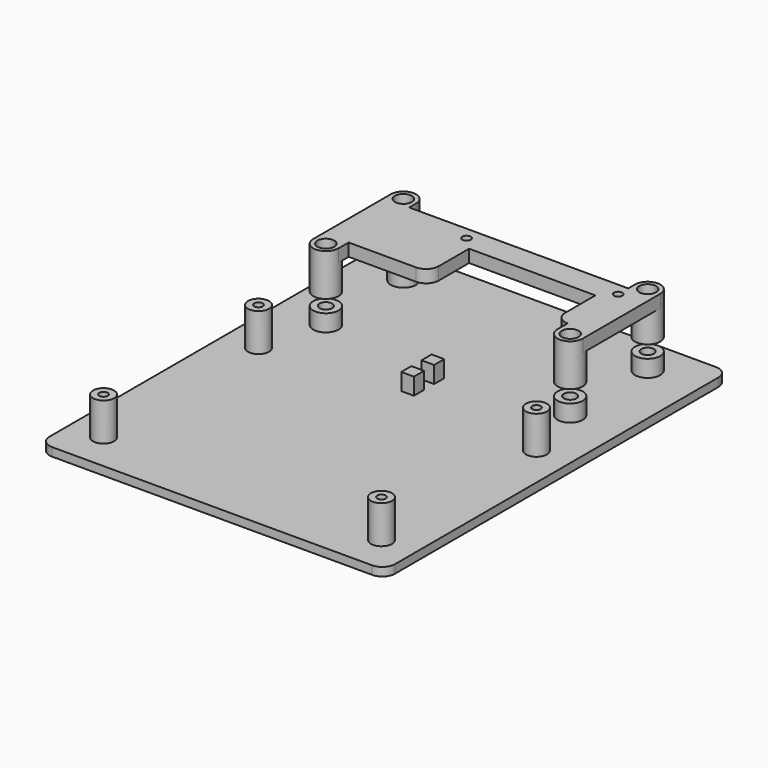
from build123d import *

# Parameters (mm, degrees)
PAD002_DEPTH  = 2
SKETCH003_R   = 3
SKETCH003_R_2 = 1.5
PAD003_DEPTH  = 4
SKETCH017_R   = 2.5
SKETCH017_R_2 = 1
PAD014_DEPTH  = 9
SKETCH018_W   = 3
SKETCH018_H   = 3
PAD015_DEPTH  = 4
SKETCH_R      = 2
SKETCH_R_2    = 1
PAD_DEPTH     = 3
SKETCH020_R   = 3
SKETCH020_R_2 = 2
PAD017_DEPTH  = 7


with BuildPart() as base:
    # Sketch002 → Pad002 (new body)
    with BuildSketch(Plane.XY):
        with BuildLine():
            Line((0, 99), (0, 3))
            ThreePointArc((0, 3), (0.87868, 0.87868), (3, 0))
            Line((3, 0), (79, 0))
            ThreePointArc((79, 0), (81.12132, 0.87868), (82, 3))
            Line((82, 3), (82, 99))
            ThreePointArc((82, 99), (81.12132, 101.12132), (79, 102))
            Line((79, 102), (3, 102))
            ThreePointArc((3, 102), (0.87868, 101.12132), (0, 99))
        make_face()
    extrude(amount=-PAD002_DEPTH)

    # Sketch003 → Pad003 (join)
    with BuildSketch(Plane.XY):
        with Locations((12, 93)):
            Circle(SKETCH003_R)
        with Locations((12, 93)):
            Circle(SKETCH003_R_2, mode=Mode.SUBTRACT)
        with Locations((70, 93)):
            Circle(SKETCH003_R)
        with Locations((70, 93)):
            Circle(SKETCH003_R_2, mode=Mode.SUBTRACT)
        with Locations((70, 70)):
            Circle(SKETCH003_R)
        with Locations((70, 70)):
            Circle(SKETCH003_R_2, mode=Mode.SUBTRACT)
        with Locations((12, 70)):
            Circle(SKETCH003_R)
        with Locations((12, 70)):
            Circle(SKETCH003_R_2, mode=Mode.SUBTRACT)
    extrude(amount=PAD003_DEPTH)

    # Sketch017 → Pad014 (join)
    with BuildSketch(Plane.XY):
        with Locations((8, 9)):
            Circle(SKETCH017_R)
        with Locations((8, 9)):
            Circle(SKETCH017_R_2, mode=Mode.SUBTRACT)
        with Locations((74, 9)):
            Circle(SKETCH017_R)
        with Locations((74, 9)):
            Circle(SKETCH017_R_2, mode=Mode.SUBTRACT)
        with Locations((74, 55)):
            Circle(SKETCH017_R)
        with Locations((74, 55)):
            Circle(SKETCH017_R_2, mode=Mode.SUBTRACT)
        with Locations((8, 55)):
            Circle(SKETCH017_R)
        with Locations((8, 55)):
            Circle(SKETCH017_R_2, mode=Mode.SUBTRACT)
    extrude(amount=PAD014_DEPTH)

    # Sketch018 → Pad015 (join)
    with BuildSketch(Plane.XY):
        with Locations((41, 65.5)):
            Rectangle(SKETCH018_W, SKETCH018_H)
        with Locations((41, 59.5)):
            Rectangle(SKETCH018_W, SKETCH018_H)
    extrude(amount=PAD015_DEPTH)


with BuildPart() as base_1:
    # Body002 placement: moved
    add(base.part.moved(Location((0, 0, -4))))


with BuildPart() as fan:
    # Sketch → Pad (new body)
    with BuildSketch(Plane.XY):
        with BuildLine():
            Line((0, 26), (0, 3))
            ThreePointArc((0, 3), (3, 0), (6, 3))
            Line((6, 6), (6, 3))
            Line((6, 6), (22, 6))
            ThreePointArc((22, 6), (24.12132, 6.87868), (25, 9))
            Line((25, 9), (25, 18))
            Line((25, 18), (55, 18))
            Line((55, 9), (55, 18))
            ThreePointArc((55, 9), (55.87868, 6.87868), (58, 6))
            Line((58, 3), (58, 6))
            ThreePointArc((58, 3), (61, 0), (64, 3))
            Line((64, 3), (64, 26))
            ThreePointArc((64, 26), (61, 29), (58, 26))
            Line((58, 24), (58, 26))
            Line((6, 24), (58, 24))
            Line((6, 26), (6, 24))
            ThreePointArc((6, 26), (3, 29), (0, 26))
        make_face()
        with Locations((3, 3)):
            Circle(SKETCH_R, mode=Mode.SUBTRACT)
        with Locations((3, 26)):
            Circle(SKETCH_R, mode=Mode.SUBTRACT)
        with Locations((61, 26)):
            Circle(SKETCH_R, mode=Mode.SUBTRACT)
        with Locations((61, 3)):
            Circle(SKETCH_R, mode=Mode.SUBTRACT)
        with Locations((22, 21)):
            Circle(SKETCH_R_2, mode=Mode.SUBTRACT)
        with Locations((58, 21)):
            Circle(SKETCH_R_2, mode=Mode.SUBTRACT)
    extrude(amount=PAD_DEPTH)

    # Sketch020 → Pad017 (join)
    with BuildSketch(Plane.XY):
        with Locations((3, 26)):
            Circle(SKETCH020_R)
        with Locations((3, 26)):
            Circle(SKETCH020_R_2, mode=Mode.SUBTRACT)
        with Locations((61, 26)):
            Circle(SKETCH020_R)
        with Locations((61, 26)):
            Circle(SKETCH020_R_2, mode=Mode.SUBTRACT)
        with Locations((3, 3)):
            Circle(SKETCH020_R)
        with Locations((3, 3)):
            Circle(SKETCH020_R_2, mode=Mode.SUBTRACT)
        with Locations((61, 3)):
            Circle(SKETCH020_R)
        with Locations((61, 3)):
            Circle(SKETCH020_R_2, mode=Mode.SUBTRACT)
    extrude(amount=-PAD017_DEPTH)


with BuildPart() as fan_1:
    # Body placement: moved
    add(fan.part.moved(Location((9, 67, 10))))


solid = Compound([base_1.part, fan_1.part])
